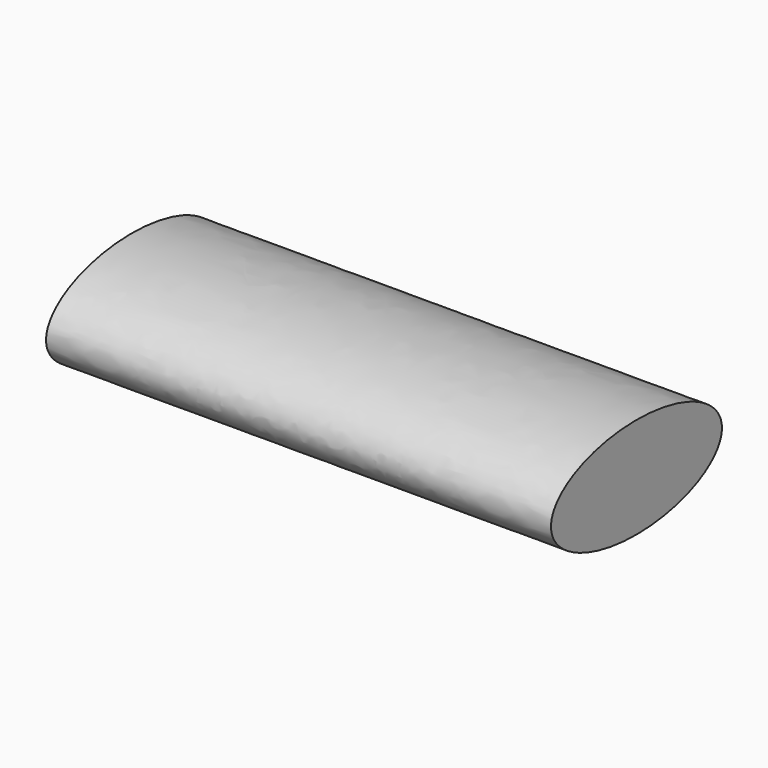
from build123d import *

# Parameters (mm, degrees)
F1_DEPTH = 65


with BuildPart() as f1:
    # F0 (on Right) → F1 (new body)
    with BuildSketch(Plane.YZ):
        with BuildLine():
            add(Edge.make_bspline(
                [(13.75, 0), (13.75, 11.25833), (-6.875, 5.629165), (-27.5, 0), (-6.875, -5.629165), (13.75, -11.25833), (13.75, 0)],
                knots=[0, 0, 0, 2.094395, 2.094395, 4.18879, 4.18879, 6.283185, 6.283185, 6.283185], degree=2, weights=[1, 0.5, 1, 0.5, 1, 0.5, 1]))
        make_face()
    extrude(amount=F1_DEPTH)


solid = f1.part
